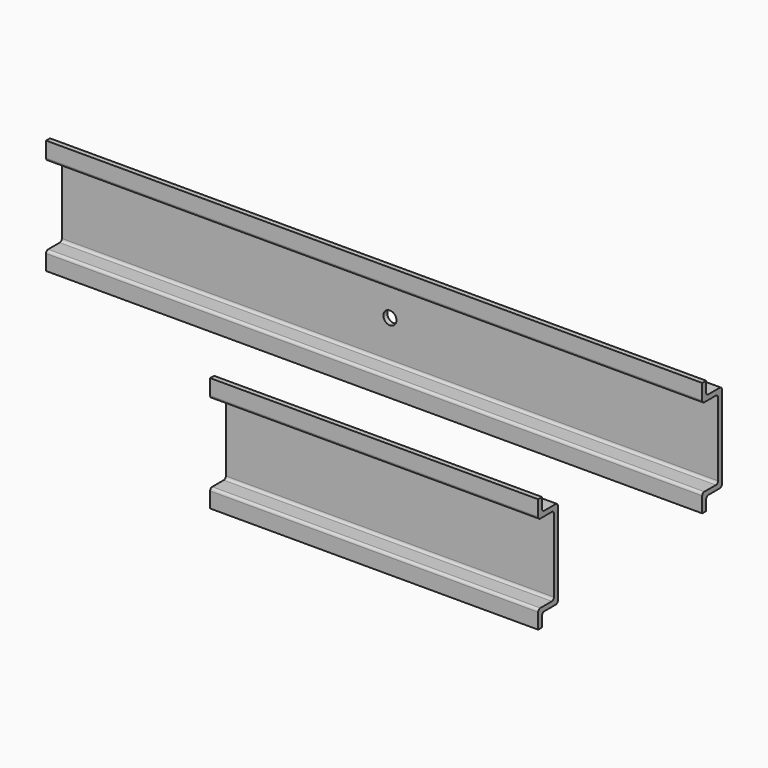
from build123d import *

# Parameters (mm, degrees)
F1_DEPTH = 100
F2_R     = 2
F3_DEPTH = 1.501
F7_DEPTH = 50


with BuildPart() as f1:
    # F0 (on Right) → F1 (new body, symmetric)
    with BuildSketch(Plane.YZ):
        with BuildLine():
            Line((0, -12.7), (0, 0))
            Line((0, 0), (0, 12.7))
            ThreePointArc((0, 12.7), (-0.2343145751, 13.2656854249), (-0.8, 13.5))
            Line((-0.8, 13.5), (-5.2, 13.5))
            ThreePointArc((-5.2, 13.5), (-5.7656854249, 13.7343145751), (-6, 14.3))
            Line((-6, 14.3), (-6, 17.5))
            Line((-6, 17.5), (-7.5, 17.5))
            Line((-7.5, 17.5), (-7.5, 12.8))
            ThreePointArc((-7.5, 12.8), (-7.2656854249, 12.2343145751), (-6.7, 12))
            Line((-6.7, 12), (-2.3, 12))
            ThreePointArc((-2.3, 12), (-1.7343145751, 11.7656854249), (-1.5, 11.2))
            Line((-1.5, 11.2), (-1.5, 0))
            Line((-1.5, 0), (-1.5, -11.2))
            ThreePointArc((-1.5, -11.2), (-1.7343145751, -11.7656854249), (-2.3, -12))
            Line((-2.3, -12), (-6.7, -12))
            ThreePointArc((-6.7, -12), (-7.2656854249, -12.2343145751), (-7.5, -12.8))
            Line((-7.5, -12.8), (-7.5, -17.5))
            Line((-7.5, -17.5), (-6, -17.5))
            Line((-6, -17.5), (-6, -14.3))
            ThreePointArc((-6, -14.3), (-5.7656854249, -13.7343145751), (-5.2, -13.5))
            Line((-5.2, -13.5), (-0.8, -13.5))
            ThreePointArc((-0.8, -13.5), (-0.2343145751, -13.2656854249), (0, -12.7))
        make_face()
    extrude(amount=F1_DEPTH, both=True)

    # F2 (on face) → F3 (cut, through all)
    with BuildSketch(Plane.XZ.offset(1.5)):
        Circle(F2_R)
    extrude(amount=-F3_DEPTH, mode=Mode.SUBTRACT)


with BuildPart() as f4_1:
    # F4: copy of F1
    add(f1.part.moved(Location((0, 0, -65))))


with BuildPart() as f7:
    # F6 (on Right) → F7 (new body, symmetric)
    with BuildSketch(Plane.YZ):
        with BuildLine():
            Line((2.0303e-06, -60.1676993489), (2.0303e-06, -47.4676993489))
            Line((2.0303e-06, -47.4676993489), (2.0303e-06, -34.7676993489))
            ThreePointArc((2.0303e-06, -34.7676993489), (-0.2343125448, -34.202013924), (-0.7999979697, -33.9676993489))
            Line((-0.7999979697, -33.9676993489), (-5.1999979697, -33.9676993489))
            ThreePointArc((-5.1999979697, -33.9676993489), (-5.7656833947, -33.7333847739), (-5.9999979697, -33.1676993489))
            Line((-5.9999979697, -33.1676993489), (-5.9999979697, -29.9676993489))
            Line((-5.9999979697, -29.9676993489), (-7.4999979697, -29.9676993489))
            Line((-7.4999979697, -29.9676993489), (-7.4999979697, -34.6676993489))
            ThreePointArc((-7.4999979697, -34.6676993489), (-7.2656833947, -35.2333847739), (-6.6999979697, -35.4676993489))
            Line((-6.6999979697, -35.4676993489), (-2.2999979697, -35.4676993489))
            ThreePointArc((-2.2999979697, -35.4676993489), (-1.7343125448, -35.702013924), (-1.4999979697, -36.2676993489))
            Line((-1.4999979697, -36.2676993489), (-1.4999979697, -47.4676993489))
            Line((-1.4999979697, -47.4676993489), (-1.4999979697, -58.6676993489))
            ThreePointArc((-1.4999979697, -58.6676993489), (-1.7343125448, -59.2333847739), (-2.2999979697, -59.4676993489))
            Line((-2.2999979697, -59.4676993489), (-6.6999979697, -59.4676993489))
            ThreePointArc((-6.6999979697, -59.4676993489), (-7.2656833947, -59.702013924), (-7.4999979697, -60.2676993489))
            Line((-7.4999979697, -60.2676993489), (-7.4999979697, -64.9676993489))
            Line((-7.4999979697, -64.9676993489), (-5.9999979697, -64.9676993489))
            Line((-5.9999979697, -64.9676993489), (-5.9999979697, -61.7676993489))
            ThreePointArc((-5.9999979697, -61.7676993489), (-5.7656833947, -61.202013924), (-5.1999979697, -60.9676993489))
            Line((-5.1999979697, -60.9676993489), (-0.7999979697, -60.9676993489))
            ThreePointArc((-0.7999979697, -60.9676993489), (-0.2343125448, -60.7333847739), (2.0303e-06, -60.1676993489))
        make_face()
    extrude(amount=F7_DEPTH, both=True)


solid = Compound([f1.part, f7.part])
